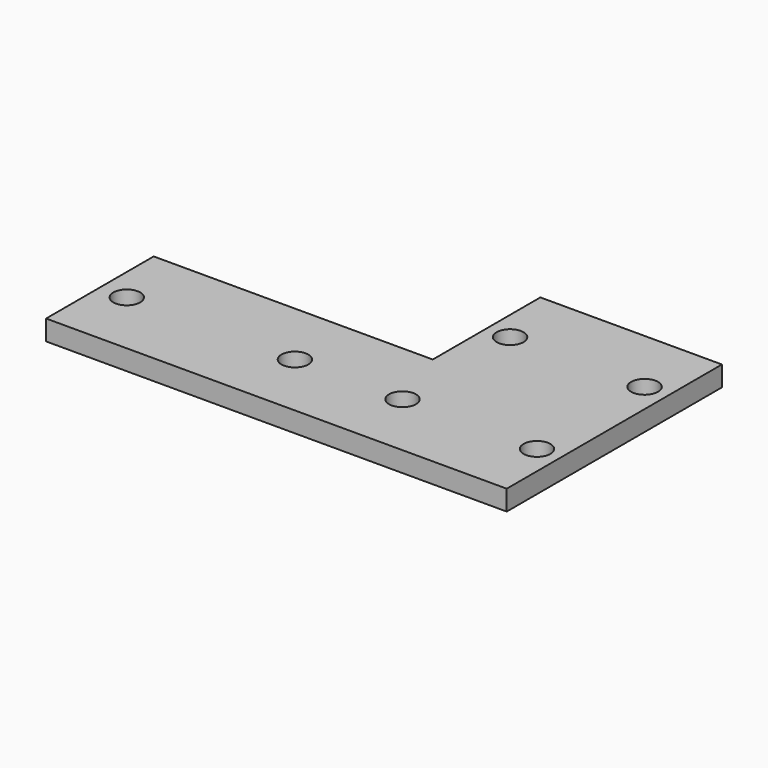
from build123d import *

# Parameters (mm, degrees)
F1_DEPTH = 3
F2_D     = 4


with BuildPart() as f1:
    # F0 (on Top) → F1 (new body)
    with BuildSketch(Plane.XY):
        Polygon((-13.5, -20), (13.5, -20), (13.5, 20), (-13.5, 20), (-13.5, 0), (-55, 0), (-55, -4.7585600987), (-55, -20), align=None)
    extrude(amount=F1_DEPTH)

    # F2 (through all)
    with Locations(Plane(origin=(0, 0, 0), x_dir=(1, 0, 0), z_dir=(0, 0, -1))):
        with Locations((-51, 10), (-26, 10), (-10, 10), (10, -10), (10, 10), (-10, -10)):
            Hole(F2_D / 2)


solid = f1.part
